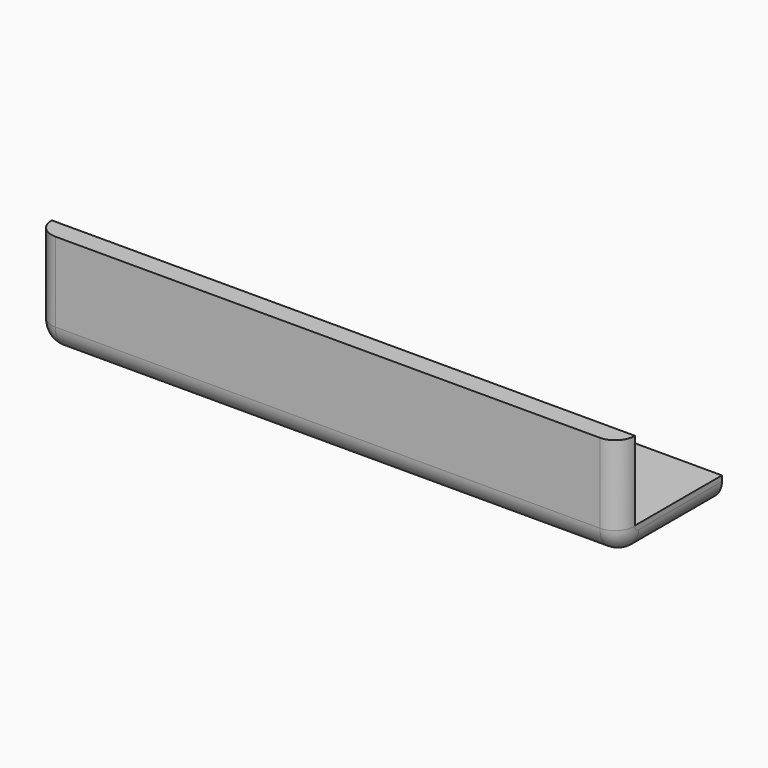
from build123d import *

# Parameters (mm, degrees)
SKETCH010_W  = 118
SKETCH010_H  = 26
SKETCH010_R  = 3.1
PAD010_DEPTH = 5
SKETCH011_W  = 118
SKETCH011_H  = 4
PAD011_DEPTH = 16
FILLET005_R  = 4.9
FILLET006_R  = 3.9


with BuildPart() as part:
    # Sketch010 → Pad010 (new body)
    with BuildSketch(Plane.XY):
        with Locations((0, 5)):
            Rectangle(SKETCH010_W, SKETCH010_H)
        with Locations((4.1, 11.1)):
            Circle(SKETCH010_R, mode=Mode.SUBTRACT)
        with Locations((36.3, 11.1)):
            Circle(SKETCH010_R, mode=Mode.SUBTRACT)
    extrude(amount=PAD010_DEPTH)

    # Sketch011 (on Face8 of Pad010) → Pad011 (join)
    with BuildSketch(Plane.XY.offset(5)):
        with Locations((0, -6)):
            Rectangle(SKETCH011_W, SKETCH011_H)
    extrude(amount=PAD011_DEPTH)

    # Fillet005
    fillet005_edges = [part.edges().sort_by_distance(p)[0] for p in [
        (0, -8, 0),
    ]]
    fillet(fillet005_edges, radius=FILLET005_R)

    # Fillet006
    fillet006_edges = [part.edges().sort_by_distance(p)[0] for p in [
        (-59, -6.564823, 1.435177),
        (59, -6.564823, 1.435177),
    ]]
    fillet(fillet006_edges, radius=FILLET006_R)


with BuildPart() as part_1:
    # Body009 placement: moved
    add(part.part.moved(Location((272, 160, 0))))


solid = part_1.part
